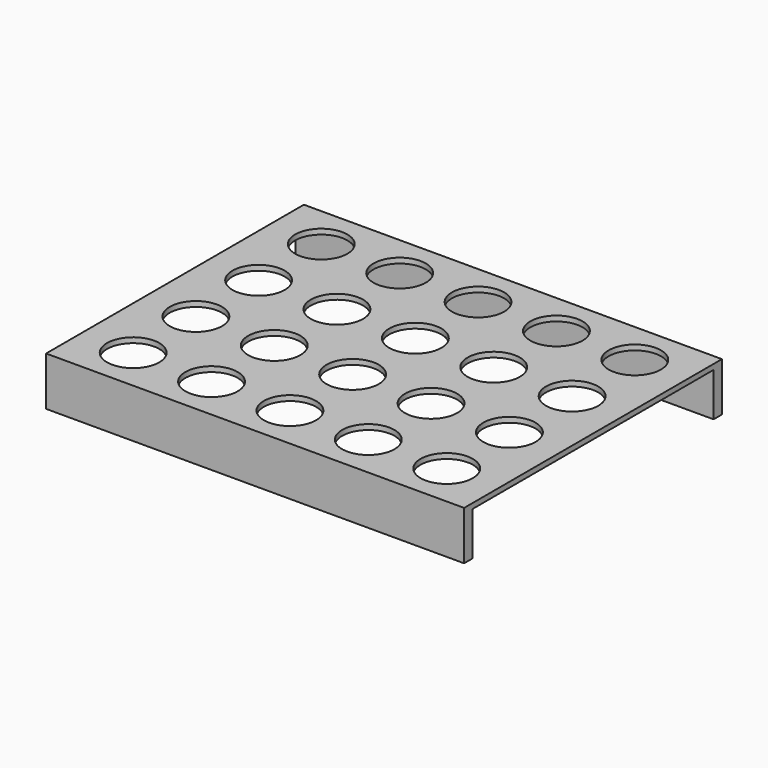
from build123d import *

# Parameters (mm, degrees)
F0_W     = 240
F0_H     = 185
F0_R     = 15
F1_DEPTH = 3
F2_W     = 240
F2_H     = 6
F3_DEPTH = 25


with BuildPart() as f1:
    # F0 (on Top) → F1 (new body)
    with BuildSketch(Plane.XY):
        with Locations((-45, 22.5)):
            Rectangle(F0_W, F0_H)
        with Locations((-135, -45)):
            Circle(F0_R, mode=Mode.SUBTRACT)
        with Locations((-90, -45)):
            Circle(F0_R, mode=Mode.SUBTRACT)
        with Locations((-135, 0)):
            Circle(F0_R, mode=Mode.SUBTRACT)
        with Locations((-90, 0)):
            Circle(F0_R, mode=Mode.SUBTRACT)
        with Locations((-45, -45)):
            Circle(F0_R, mode=Mode.SUBTRACT)
        with Locations((0, -45)):
            Circle(F0_R, mode=Mode.SUBTRACT)
        with Locations((45, -45)):
            Circle(F0_R, mode=Mode.SUBTRACT)
        with Locations((-45, 0)):
            Circle(F0_R, mode=Mode.SUBTRACT)
        Circle(F0_R, mode=Mode.SUBTRACT)
        with Locations((45, 0)):
            Circle(F0_R, mode=Mode.SUBTRACT)
        with Locations((-135, 45)):
            Circle(F0_R, mode=Mode.SUBTRACT)
        with Locations((-90, 45)):
            Circle(F0_R, mode=Mode.SUBTRACT)
        with Locations((-135, 90)):
            Circle(F0_R, mode=Mode.SUBTRACT)
        with Locations((-90, 90)):
            Circle(F0_R, mode=Mode.SUBTRACT)
        with Locations((-45, 45)):
            Circle(F0_R, mode=Mode.SUBTRACT)
        with Locations((0, 45)):
            Circle(F0_R, mode=Mode.SUBTRACT)
        with Locations((45, 45)):
            Circle(F0_R, mode=Mode.SUBTRACT)
        with Locations((-45, 90)):
            Circle(F0_R, mode=Mode.SUBTRACT)
        with Locations((0, 90)):
            Circle(F0_R, mode=Mode.SUBTRACT)
        with Locations((45, 90)):
            Circle(F0_R, mode=Mode.SUBTRACT)
    extrude(amount=F1_DEPTH)

    # F2 (on face) → F3 (join)
    with BuildSketch(Plane(origin=(0, 0, 0), x_dir=(1, 0, 0), z_dir=(0, 0, -1))):
        with Locations((-45, 67)):
            Rectangle(F2_W, F2_H)
        with Locations((-45, -112)):
            Rectangle(F2_W, F2_H)
    extrude(amount=F3_DEPTH)


solid = f1.part
